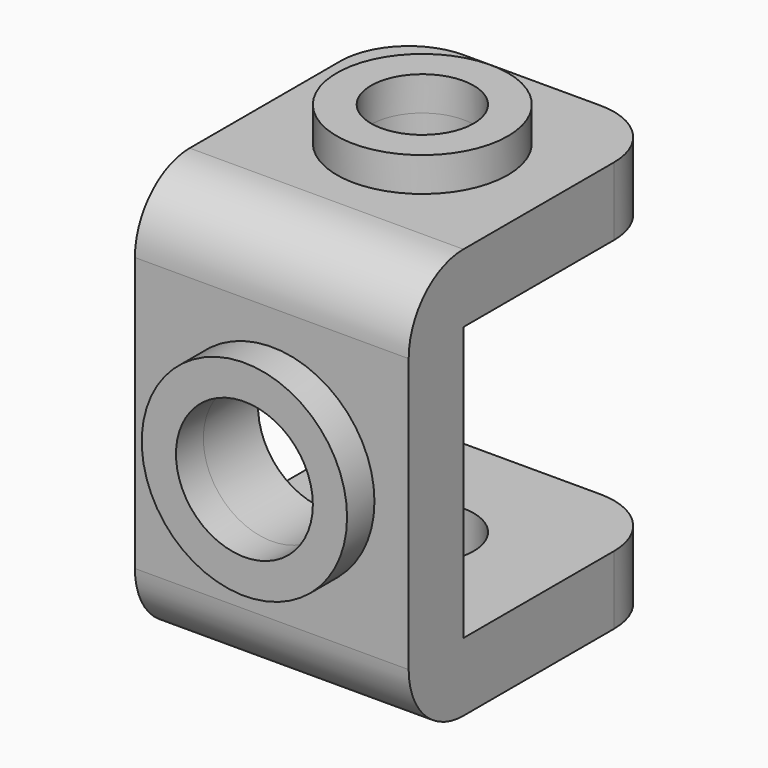
from build123d import *

# Parameters (mm, degrees)
F9_W       = 40
F9_H       = 60
F0_DEPTH   = 47.5
F10_W      = 81.115219
F10_H      = 40
F1_DEPTH   = 37.5
F3_R       = 12.5
F3_R_2     = 7.5
F4_DEPTH   = 5
F2_R       = 12.5
F2_R_2     = 7.5
F11_DEPTH  = 5
F5_R       = 10
F12_R      = 15
F12_R_2    = 10
F13_DEPTH  = 5
F6_DEPTH   = 25
F4_FACE_R  = 7.5
F7_DEPTH   = 25
F13_FACE_R = 10
F8_DEPTH   = 25


with BuildPart() as f0:
    # F9 (on Front) → F0 (new body)
    with BuildSketch(Plane.XZ):
        Rectangle(F9_W, F9_H)
    extrude(amount=F0_DEPTH)

    # F10 (on Front) → F1 (cut)
    with BuildSketch(Plane.XZ):
        with Locations((-0.543405, 0)):
            Rectangle(F10_W, F10_H)
    extrude(amount=F1_DEPTH, mode=Mode.SUBTRACT)

    # F3 (on face) → F4 (join)
    with BuildSketch(Plane(origin=(0, 0, -30), x_dir=(1, 0, 0), z_dir=(0, 0, -1))):
        with Locations((0, 20)):
            Circle(F3_R)
        with Locations((0, 20)):
            Circle(F3_R_2, mode=Mode.SUBTRACT)
    extrude(amount=F4_DEPTH)

    # F2 (on face) → F11 (join)
    with BuildSketch(Plane.XY.offset(30)):
        with Locations((0, -20)):
            Circle(F2_R)
        with Locations((0, -20)):
            Circle(F2_R_2, mode=Mode.SUBTRACT)
    extrude(amount=F11_DEPTH)

    # F5
    f5_edges = [f0.edges().sort_by_distance(p)[0] for p in [
        (0, -47.5, -30),
        (0, -47.5, 30),
        (20, 0, -25),
        (20, 0, 25),
        (-20, 0, 25),
        (-20, 0, -25),
    ]]
    fillet(f5_edges, radius=F5_R)

    # F12 (on face) → F13 (join)
    with BuildSketch(Plane.XZ.offset(47.5)):
        Circle(F12_R)
        Circle(F12_R_2, mode=Mode.SUBTRACT)
    extrude(amount=F13_DEPTH)

    # F2 (on face) → F6 (cut)
    with BuildSketch(Plane.XY.offset(30)):
        with Locations((0, -20)):
            Circle(F2_R_2)
    extrude(amount=-F6_DEPTH, mode=Mode.SUBTRACT)

    # F4_face (on face) → F7 (cut)
    with BuildSketch(Plane(origin=(0, -20, -30), x_dir=(1, 0, 0), z_dir=(0, 0, -1))):
        Circle(F4_FACE_R)
    extrude(amount=-F7_DEPTH, mode=Mode.SUBTRACT)

    # F13_face (on face) → F8 (cut)
    with BuildSketch(Plane.XZ.offset(47.5)):
        Circle(F13_FACE_R)
    extrude(amount=-F8_DEPTH, mode=Mode.SUBTRACT)


solid = f0.part
